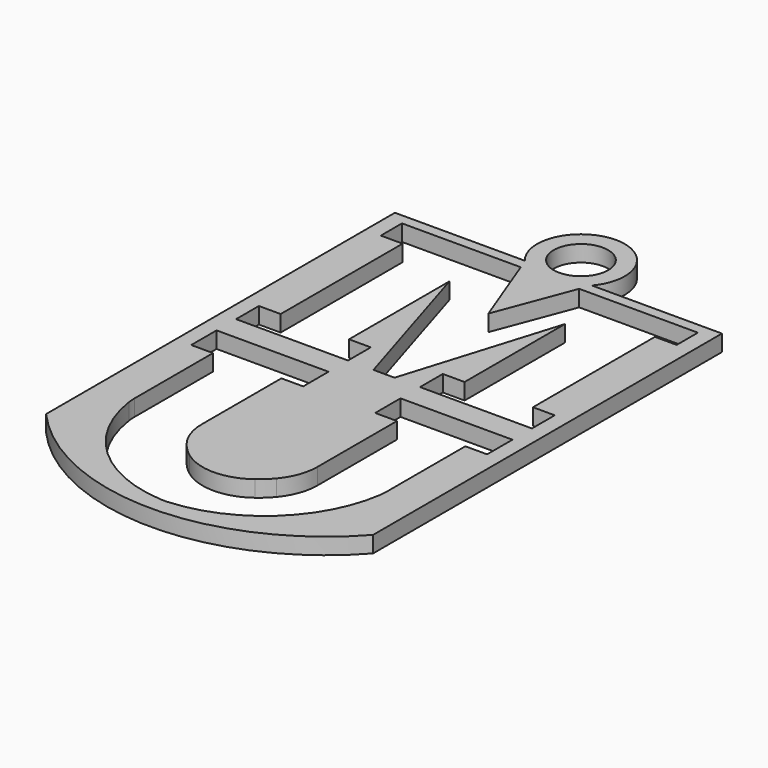
from build123d import *

# Parameters (mm, degrees)
F1_DEPTH = 1.905
F2_R     = 5.103182
F2_R_2   = 3.175
F3_DEPTH = 1.905


with BuildPart() as f1:
    # F0 (on Top) → F1 (new body)
    with BuildSketch(Plane.XY):
        with BuildLine():
            Line((19.05, -25.4), (19.05, 25.4))
            Line((19.05, 25.4), (-19.05, 25.4))
            Line((-19.05, 25.4), (-19.05, -25.4))
            ThreePointArc((-19.05, -25.4), (0, -33.95096), (19.05, -25.4))
        make_face()
        with BuildLine():
            Line((-17.237284, -2.838026), (-4.192493, -2.838026))
            Line((-4.192493, -2.838026), (-4.192493, -6.529213))
            Line((-4.192493, -6.529213), (-6.732493, -6.529213))
            Line((-6.732493, -6.529213), (-6.732493, -18.11105))
            ThreePointArc((-6.732493, -18.11105), (-6.348631, -20.285378), (-5.243453, -22.196827))
            ThreePointArc((-5.243453, -22.196827), (-4.573516, -22.908548), (-3.827984, -23.540643))
            ThreePointArc((-3.827984, -23.540643), (0, -24.824181), (3.827984, -23.540643))
            ThreePointArc((3.827984, -23.540643), (4.573516, -22.908548), (5.243453, -22.196827))
            ThreePointArc((5.243453, -22.196827), (6.348631, -20.285378), (6.732493, -18.11105))
            Line((6.732493, -18.11105), (6.732493, -6.529213))
            Line((6.732493, -6.529213), (4.192493, -6.529213))
            Line((4.192493, -6.529213), (4.192493, -2.838026))
            Line((4.192493, -2.838026), (17.237284, -2.838026))
            Line((17.237284, -2.838026), (17.237284, -6.529213))
            Line((17.237284, -6.529213), (14.697284, -6.529213))
            Line((14.697284, -6.529213), (14.697284, -17.94984))
            ThreePointArc((14.697284, -17.94984), (14.680642, -18.409263), (14.630805, -18.866277))
            ThreePointArc((14.630805, -18.866277), (9.850108, -27.94721), (0.42469, -32.006754))
            ThreePointArc((0.42469, -32.006754), (0, -32.020972), (-0.42469, -32.006754))
            ThreePointArc((-0.42469, -32.006754), (-9.850108, -27.94721), (-14.630805, -18.866277))
            ThreePointArc((-14.630805, -18.866277), (-14.680642, -18.409263), (-14.697284, -17.94984))
            Line((-14.697284, -17.94984), (-14.697284, -6.529213))
            Line((-14.697284, -6.529213), (-17.237284, -6.529213))
            Line((-17.237284, -6.529213), (-17.237284, -2.838026))
        make_face(mode=Mode.SUBTRACT)
        Polygon((-4.192493, 0), (-17.237284, 0), (-17.237284, 3.319815), (-14.697284, 3.319815), (-14.697284, 21.078367), (-17.237284, 21.078367), (-17.237284, 24.166811), (-3.401691, 24.166811), (0, 15.196723), (3.401691, 24.166811), (17.237284, 24.166811), (17.237284, 21.078367), (14.697284, 21.078367), (14.697284, 3.319815), (17.237284, 3.319815), (17.237284, 0), (4.192493, 0), (4.192493, 3.319815), (6.732493, 3.319815), (6.732493, 17.942958), (1.229278, 0), (-1.229278, 0), (-6.732493, 17.942958), (-6.732493, 3.319815), (-4.192493, 3.319815), align=None, mode=Mode.SUBTRACT)
    extrude(amount=F1_DEPTH)

    # F2 (on face) → F3 (join)
    with BuildSketch(Plane.XY.offset(1.905)):
        with Locations((0, 28.680496)):
            Circle(F2_R)
        with Locations((0, 28.680496)):
            Circle(F2_R_2, mode=Mode.SUBTRACT)
    extrude(amount=-F3_DEPTH)


solid = f1.part
